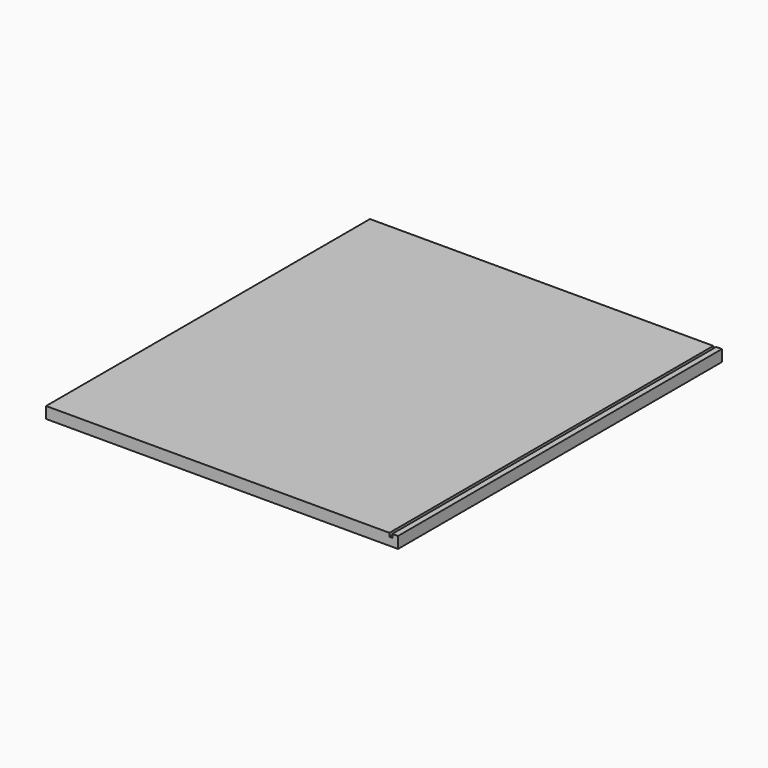
from build123d import *

# Parameters (mm, degrees)
F0_W     = 492
F0_H     = 566
F1_DEPTH = 16
F2_W     = 4
F2_H     = 5
F3_DEPTH = 566.001


with BuildPart() as f1:
    # F0 (on Top) → F1 (new body)
    with BuildSketch(Plane.XY):
        Rectangle(F0_W, F0_H)
    extrude(amount=F1_DEPTH)

    # F2 (on face) → F3 (cut, through all)
    with BuildSketch(Plane(origin=(0, 283, 0), x_dir=(-1, 0, 0), z_dir=(0, 1, 0))):
        with Locations((-236, 13.5)):
            Rectangle(F2_W, F2_H)
    extrude(amount=-F3_DEPTH, mode=Mode.SUBTRACT)


solid = f1.part
